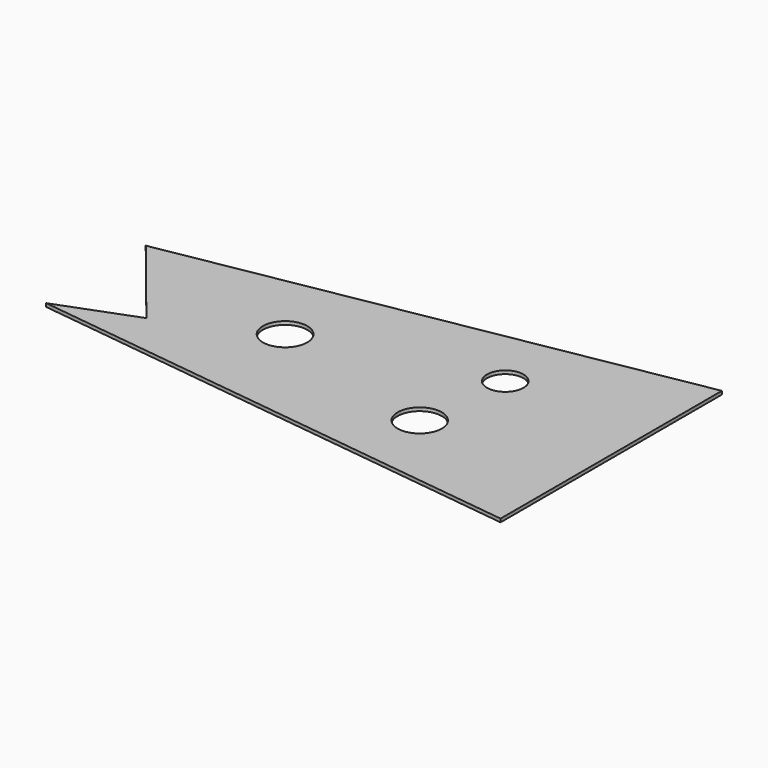
from build123d import *

# Parameters (mm, degrees)
F0_W     = 150.972114
F0_H     = 82.764328
F1_DEPTH = 1
F3_DEPTH = 25
F4_R     = 5.447895
F4_R_2   = 6.606543
F4_R_3   = 6.639495
F5_DEPTH = 25


with BuildPart() as f1:
    # F0 (on Top) → F1 (new body)
    with BuildSketch(Plane.XY):
        Rectangle(F0_W, F0_H)
    extrude(amount=F1_DEPTH)

    # F2 (on face) → F3 (cut)
    with BuildSketch(Plane.XY.offset(1)):
        Polygon((-75.486057, 14.666528), (75.486057, 41.382164), (-75.486057, 41.382164), align=None)
        Polygon((-52.455958, -13.873742), (-75.486057, 14.666528), (-75.486057, -22.594379), align=None)
        Polygon((-75.486057, -41.382164), (75.486057, -41.382164), (-75.486057, -22.594379), align=None)
    extrude(amount=-F3_DEPTH, mode=Mode.SUBTRACT)

    # F4 (on face) → F5 (cut)
    with BuildSketch(Plane.XY.offset(1)):
        with Locations((32.90059, 13.609481)):
            Circle(F4_R)
        with Locations((29.729448, -14.402266)):
            Circle(F4_R_2)
        with Locations((-22.065856, 0)):
            Circle(F4_R_3)
    extrude(amount=-F5_DEPTH, mode=Mode.SUBTRACT)


solid = f1.part
